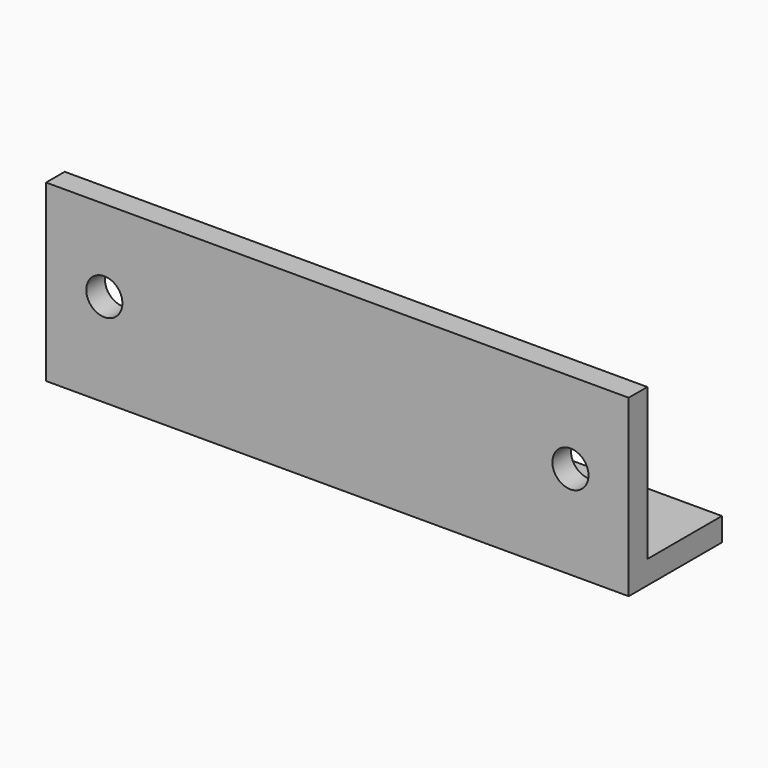
from build123d import *

# Parameters (mm, degrees)
PAD_DEPTH       = 50
SKETCH001_R     = 1.55
POCKET_DEPTH    = 15.001
SKETCH002_R     = 1.55
POCKET001_DEPTH = 10.001


with BuildPart() as part:
    # Sketch → Pad (new body)
    with BuildSketch(Plane.YZ):
        Polygon((0, 0), (0, 15), (2, 15), (2, 2), (10, 2), (10, 0), align=None)
    extrude(amount=PAD_DEPTH)

    # Sketch001 (on Face6 of Pad) → Pocket (cut, through all)
    with BuildSketch(Plane.YX):
        with Locations((5, 38)):
            Circle(SKETCH001_R)
        with Locations((5, 12)):
            Circle(SKETCH001_R)
    extrude(amount=-POCKET_DEPTH, mode=Mode.SUBTRACT)

    # Sketch002 (on Face1 of Pocket) → Pocket001 (cut, through all)
    with BuildSketch(Plane(origin=(0, 0, 0), x_dir=(0, 0, -1), z_dir=(0, -1, 0))):
        with Locations((-8, 45)):
            Circle(SKETCH002_R)
        with Locations((-8, 5)):
            Circle(SKETCH002_R)
    extrude(amount=-POCKET001_DEPTH, mode=Mode.SUBTRACT)


solid = part.part
